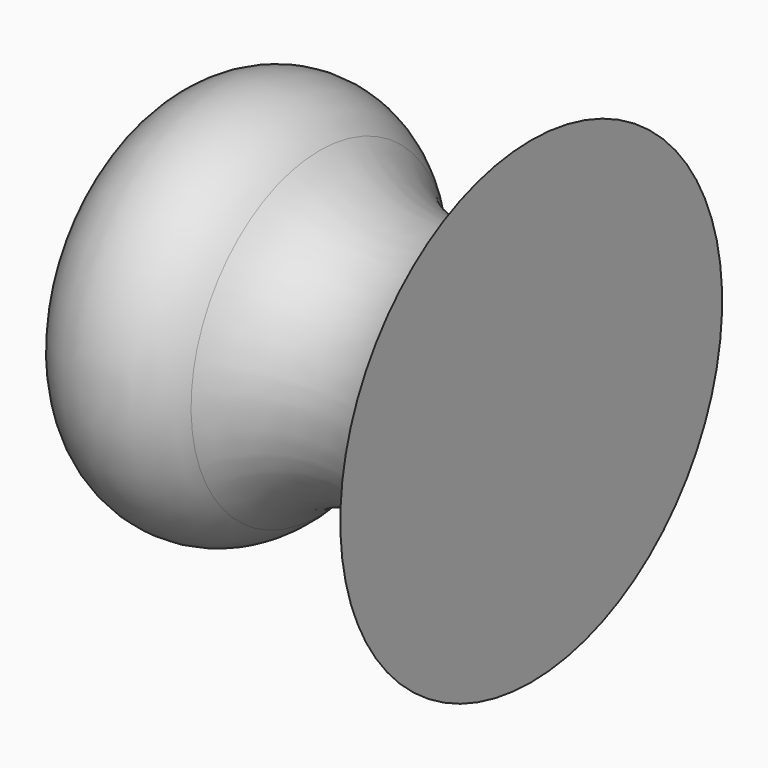
from build123d import *

# Parameters (mm, degrees)
F2_T = -2.54


with BuildPart() as f1:
    # F0 (on Front) → F1 (revolve)
    with BuildSketch(Plane.XZ):
        with BuildLine():
            ThreePointArc((13.7906543284, -0.2612395202), (4.763390184, -12.9445164779), (-10.3318825251, -9.1379755077))
            ThreePointArc((-10.3318825251, -9.1379755077), (-22.6524907641, -6.1891354414), (-29.6193234888, -16.7700752344))
            Line((-29.6193234888, -16.7700752344), (-29.3040741235, -27.475455652))
            Line((-29.3040741235, -27.475455652), (13.7906543284, -27.475455652))
            Line((13.7906543284, -27.475455652), (13.7906543284, -0.2612395202))
        make_face()
    revolve(axis=Axis((-7.7567098975, 0, -27.475455652), (1, 0, 0)))

    # F2 (hollow: no face is removed)
    offset(amount=F2_T, mode=Mode.SUBTRACT)


solid = f1.part
